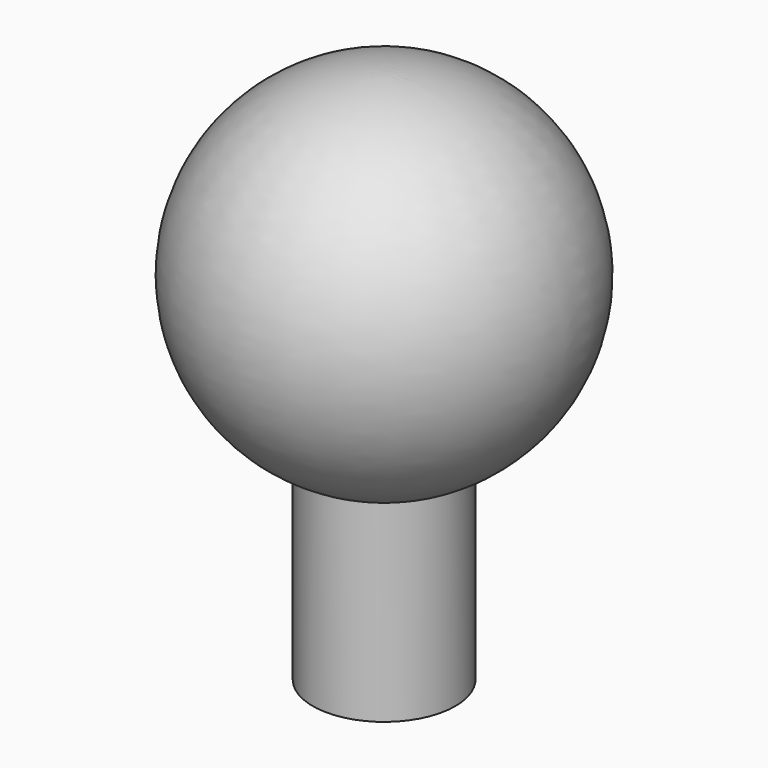
from build123d import *


with BuildPart() as f1:
    # F0 (on Front) → F1 (revolve)
    with BuildSketch(Plane.XZ):
        with BuildLine():
            Line((0, 0), (0, -40))
            ThreePointArc((0, -40), (4.086193, -39.578126), (8, -38.330303))
            ThreePointArc((8, -38.330303), (19.578126, -15.913807), (0, 0))
        make_face()
        with BuildLine():
            ThreePointArc((8, -38.330303), (4.086193, -39.578126), (0, -40))
            Line((0, -40), (0, -60))
            Line((0, -60), (8, -60))
            Line((8, -60), (8, -38.330303))
        make_face()
    revolve(axis=Axis((0, 0, -20), (0, 0, -1)))


solid = f1.part
